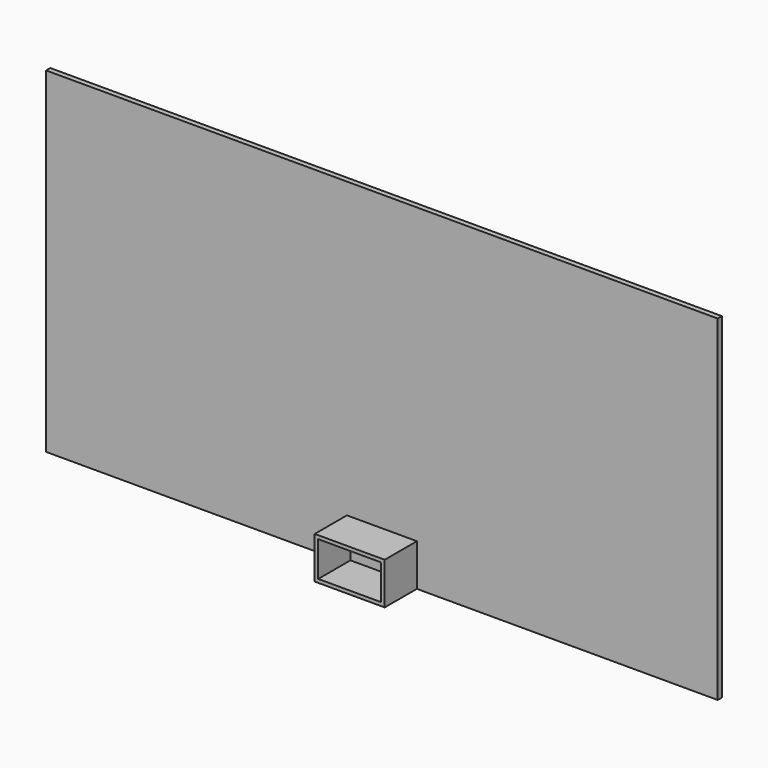
from build123d import *

# Parameters (mm, degrees)
F1_DEPTH = 38.1
F2_W     = 2438.4
F2_H     = 1219.2
F3_DEPTH = 19.05
F4_W     = 254
F4_H     = 152.4
F4_W_2   = 228.6
F4_H_2   = 127
F5_DEPTH = 203.2


with BuildPart() as f1:
    # F0 (on Front) → F1 (new body)
    with BuildSketch(Plane.XZ):
        Polygon((-1117.6, 1016), (-1117.6, 0), (0, 0), (1117.6, 0), (1117.6, 1016), align=None)
        Polygon((1028.7, 88.9), (0, 88.9), (-1028.7, 88.9), (-1028.7, 927.1), (1028.7, 927.1), align=None, mode=Mode.SUBTRACT)
    extrude(amount=F1_DEPTH)


with BuildPart() as f3:
    # F2 (on face) → F3 (new body)
    with BuildSketch(Plane.XZ.offset(38.1)):
        Polygon((1219.2, 1219.2), (-1219.2, 1219.2), (-1219.2, 0), (-1117.6, 0), (-1117.6, 1016), (1117.6, 1016), (1117.6, 0), (1219.2, 0), align=None)
        with Locations((0, 609.6)):
            Rectangle(F2_W, F2_H)
    extrude(amount=F3_DEPTH)


with BuildPart() as f5:
    # F4 (on Front) → F5 (new body)
    with BuildSketch(Plane.XZ):
        with Locations((0, 76.2)):
            Rectangle(F4_W, F4_H)
        with Locations((0, 76.2)):
            Rectangle(F4_W_2, F4_H_2, mode=Mode.SUBTRACT)
    extrude(amount=F5_DEPTH)


solid = Compound([f1.part, f3.part, f5.part])
